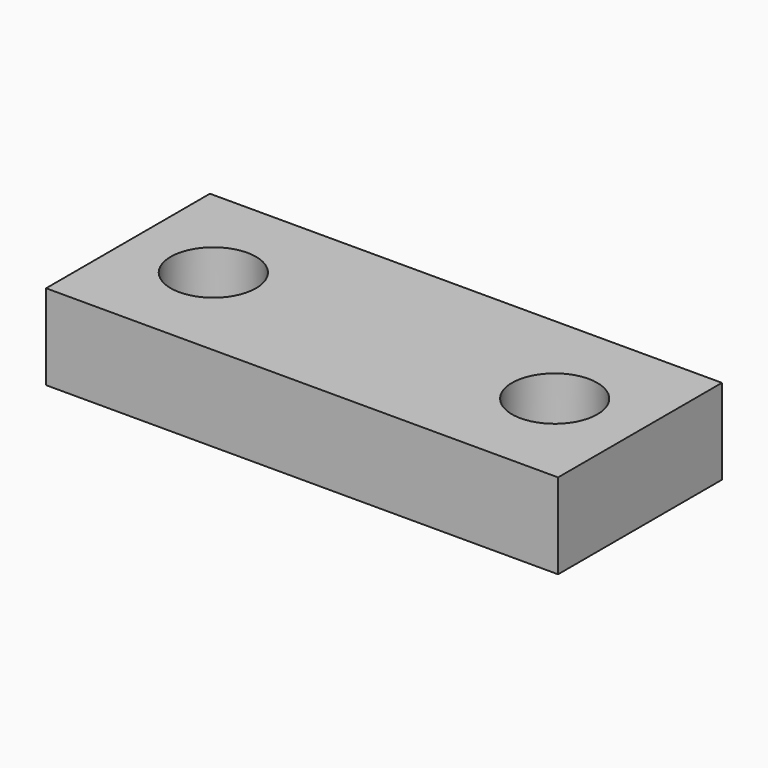
from build123d import *

# Parameters (mm, degrees)
F0_W     = 15
F0_H     = 12
F0_R     = 2.5
F1_DEPTH = 5


with BuildPart() as f1:
    # F0 (on Top) → F1 (new body)
    with BuildSketch(Plane.XY):
        with Locations((7.5, 0)):
            Rectangle(F0_W, F0_H)
        with Locations((10, 0)):
            Circle(F0_R, mode=Mode.SUBTRACT)
        with Locations((-7.5, 0)):
            Rectangle(F0_W, F0_H)
        with Locations((-10, 0)):
            Circle(F0_R, mode=Mode.SUBTRACT)
    extrude(amount=F1_DEPTH)


solid = f1.part
